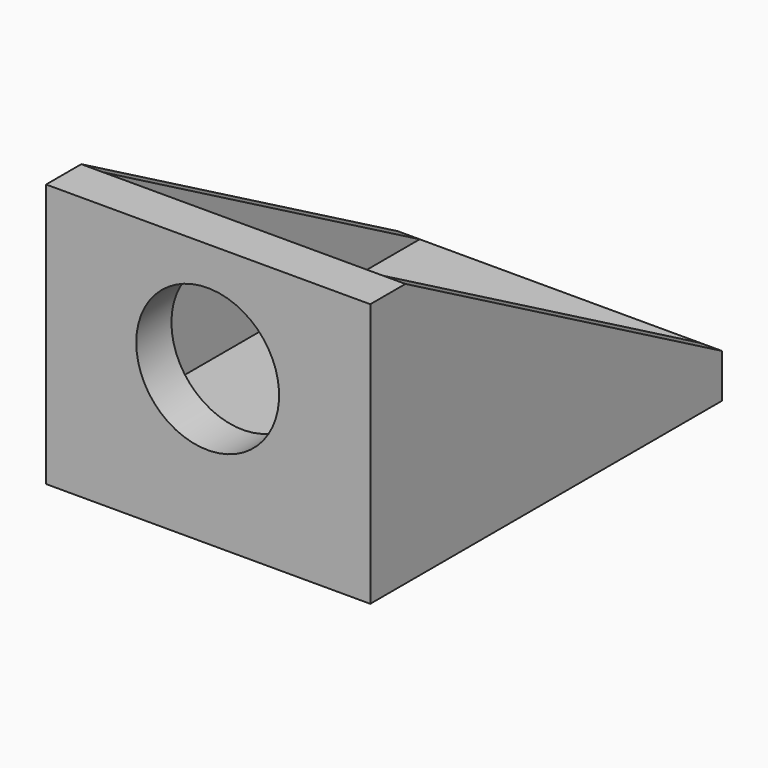
from build123d import *

# Parameters (mm, degrees)
SKETCH_W        = 29.5
SKETCH_H        = 40
SKETCH_R        = 1.75
PAD_DEPTH       = 24
SKETCH001_W     = 25.5
SKETCH001_H     = 36
POCKET_DEPTH    = 20
POCKET001_DEPTH = 29.501
SKETCH003_R     = 6.5
POCKET002_DEPTH = 5


with BuildPart() as part:
    # Sketch → Pad (new body)
    with BuildSketch(Plane.XY):
        with Locations((0, 10)):
            Rectangle(SKETCH_W, SKETCH_H)
        with Locations((-8.25, 14)):
            Circle(SKETCH_R, mode=Mode.SUBTRACT)
        with Locations((0, 14)):
            Circle(SKETCH_R, mode=Mode.SUBTRACT)
        with Locations((8.25, 14)):
            Circle(SKETCH_R, mode=Mode.SUBTRACT)
    extrude(amount=PAD_DEPTH)

    # Sketch001 (on Face9 of Pad) → Pocket (cut)
    with BuildSketch(Plane.XY.offset(24)):
        with Locations((0, 12)):
            Rectangle(SKETCH001_W, SKETCH001_H)
    extrude(amount=-POCKET_DEPTH, mode=Mode.SUBTRACT)

    # Sketch002 (on Face8 of Pocket) → Pocket001 (cut, through all)
    with BuildSketch(Plane(origin=(-14.75, 0, 0), x_dir=(0, -1, 0), z_dir=(-1, 0, 0))):
        Polygon((-30, 24), (6, 24), (-30, 4), align=None)
    extrude(amount=-POCKET001_DEPTH, mode=Mode.SUBTRACT)

    # Sketch003 (on Face15 of Pocket001) → Pocket002 (cut)
    with BuildSketch(Plane(origin=(0, -6, 0), x_dir=(-1, 0, 0), z_dir=(0, 1, 0))):
        with Locations((0.044684, 14)):
            Circle(SKETCH003_R)
    extrude(amount=-POCKET002_DEPTH, mode=Mode.SUBTRACT)


solid = part.part
